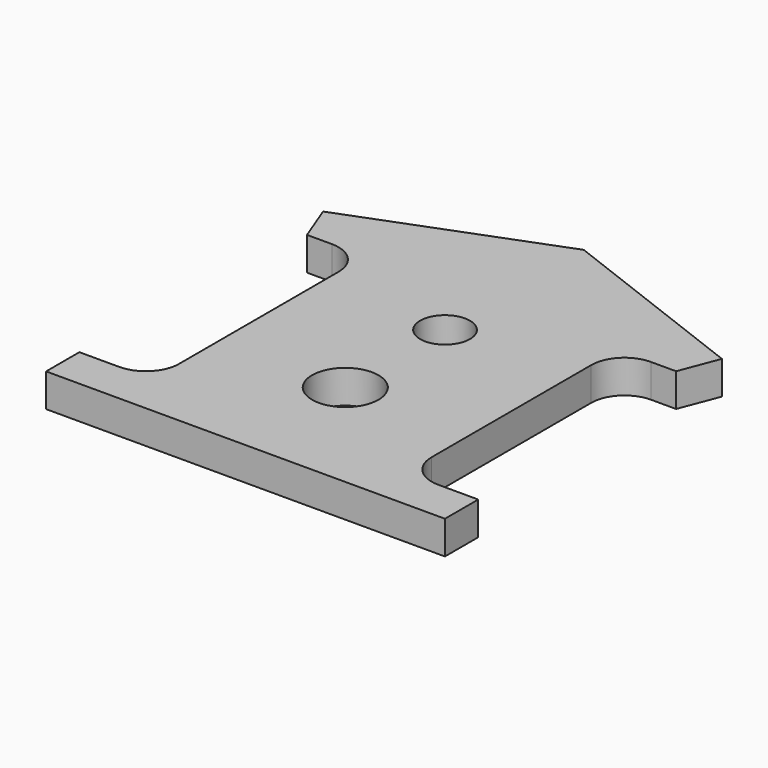
from build123d import *

# Parameters (mm, degrees)
F1_DEPTH = 6.35
F2_R     = 6.35
F2_R_2   = 4.7625
F3_DEPTH = 6.351


with BuildPart() as f1:
    # F0 (on Top) → F1 (new body)
    with BuildSketch(Plane.XY):
        with BuildLine():
            Line((-38.1, -15.875), (-38.1, -23.8252))
            Line((-38.1, -23.8252), (38.1, -23.8252))
            Line((38.1, -23.8252), (38.1, -15.875))
            Line((38.1, -15.875), (30.48, -15.875))
            ThreePointArc((30.48, -15.875), (25.989872, -14.015128), (24.13, -9.525))
            Line((24.13, -9.525), (24.13, 28.575))
            ThreePointArc((24.13, 28.575), (25.989872, 33.065128), (30.48, 34.925))
            Line((30.48, 34.925), (35.260719, 34.925))
            Line((35.260719, 34.925), (38.1, 42.32158))
            Line((38.1, 42.32158), (0, 56.9468))
            Line((0, 56.9468), (-38.1, 42.32158))
            Line((-38.1, 42.32158), (-35.260719, 34.925))
            Line((-35.260719, 34.925), (-30.48, 34.925))
            ThreePointArc((-30.48, 34.925), (-25.989872, 33.065128), (-24.13, 28.575))
            Line((-24.13, 28.575), (-24.13, -9.525))
            ThreePointArc((-24.13, -9.525), (-25.989872, -14.015128), (-30.48, -15.875))
            Line((-30.48, -15.875), (-38.1, -15.875))
        make_face()
    extrude(amount=F1_DEPTH)

    # F2 (on Top) → F3 (cut, through all)
    with BuildSketch(Plane.XY):
        Circle(F2_R)
        with Locations((0, 23.8252)):
            Circle(F2_R_2)
    extrude(amount=F3_DEPTH, mode=Mode.SUBTRACT)


solid = f1.part
